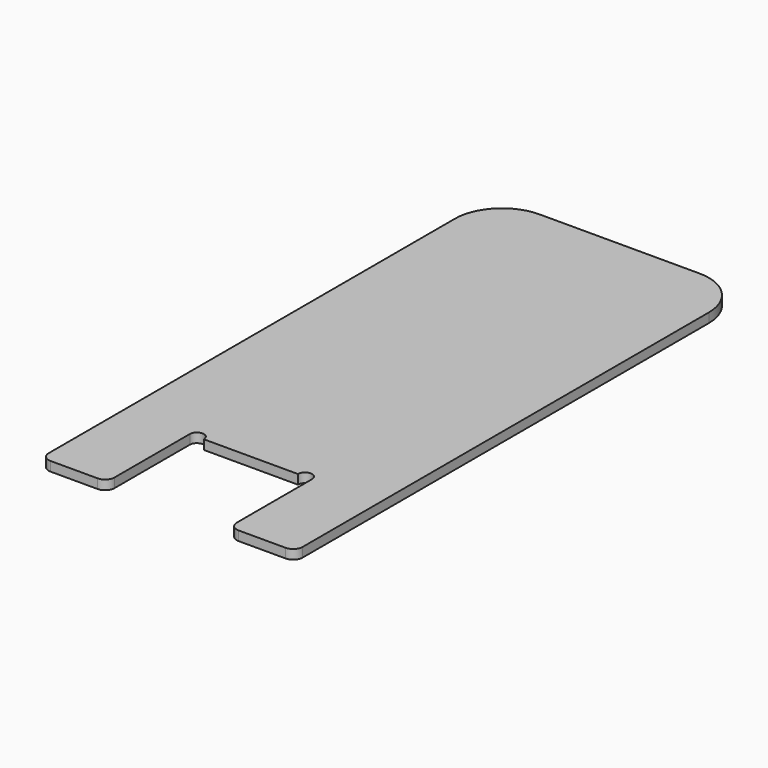
from build123d import *

# Parameters (mm, degrees)
F1_DEPTH = 1


with BuildPart() as f1:
    # F0 (on Top) → F1 (new body)
    with BuildSketch(Plane.XY):
        with BuildLine():
            ThreePointArc((-13.5, 1), (-13.207107, 0.292893), (-12.5, 0))
            Line((-12.5, 0), (-7.5, 0))
            ThreePointArc((-7.5, 0), (-6.792893, 0.292893), (-6.5, 1))
            Line((-6.5, 1), (-6.5, 11))
            ThreePointArc((-6.5, 11), (-5.75, 11.75), (-5, 11))
            Line((-5, 11), (0, 11))
            Line((0, 11), (5, 11))
            ThreePointArc((5, 11), (5.75, 11.75), (6.5, 11))
            Line((6.5, 11), (6.5, 1))
            ThreePointArc((6.5, 1), (6.792893, 0.292893), (7.5, 0))
            Line((7.5, 0), (12.5, 0))
            ThreePointArc((12.5, 0), (13.207107, 0.292893), (13.5, 1))
            Line((13.5, 1), (13.5, 55))
            ThreePointArc((13.5, 55), (12.035534, 58.535534), (8.5, 60))
            Line((8.5, 60), (0, 60))
            Line((0, 60), (-8.5, 60))
            ThreePointArc((-8.5, 60), (-12.035534, 58.535534), (-13.5, 55))
            Line((-13.5, 55), (-13.5, 1))
        make_face()
    extrude(amount=F1_DEPTH)


solid = f1.part
